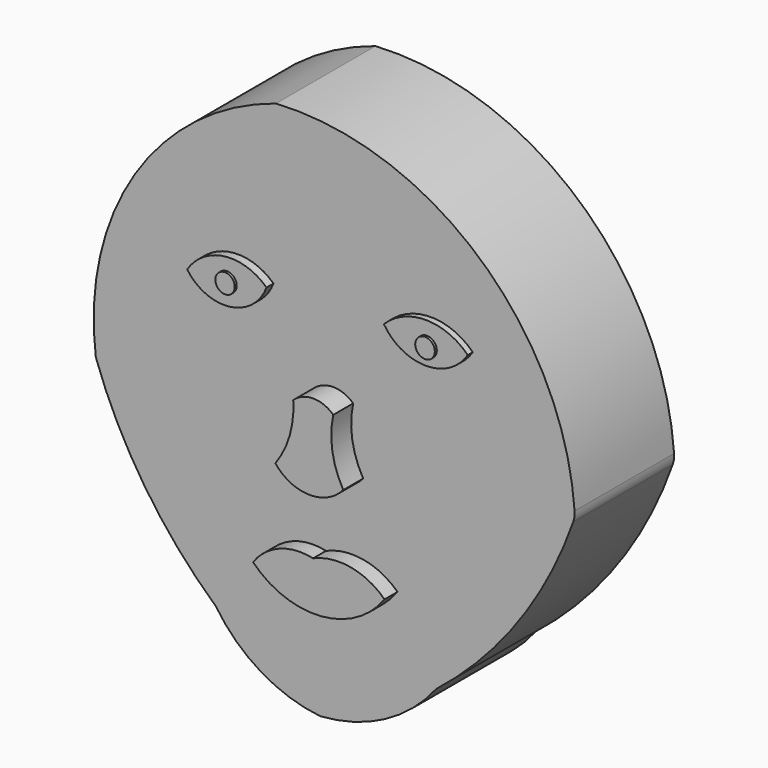
from build123d import *

# Parameters (mm, degrees)
F1_DEPTH  = 25.4
F2_R      = 5.08
F7_DEPTH  = 1.778
F8_DEPTH  = 1.27
F9_R      = 1.983549
F9_R_2    = 2.000866
F10_DEPTH = 0.508
F13_DEPTH = 3.302
F15_DEPTH = 4.826
F16_DEPTH = 5.08


with BuildPart() as f1:
    # F0 (on Front) → F1 (new body)
    with BuildSketch(Plane.XZ):
        with BuildLine():
            ThreePointArc((57.112481, 0), (37.924896, 39.944128), (-3.937069, 54.479349))
            ThreePointArc((-3.937069, 54.479349), (-32.779272, 32.369491), (-40.742062, -3.089111))
            ThreePointArc((-40.742062, -3.089111), (-30.781692, -23.026947), (-16.22959, -39.907783))
            ThreePointArc((-16.22959, -39.907783), (-6.995957, -48.701661), (5.098473, -52.741095))
            ThreePointArc((5.098473, -52.741095), (18.285511, -48.982574), (28.772663, -40.148318))
            ThreePointArc((28.772663, -40.148318), (45.857052, -22.131426), (57.112481, 0))
        make_face()
    extrude(amount=F1_DEPTH)

    # F2
    f2_edges = [f1.edges().sort_by_distance(p)[0] for p in [
        (57.112481, -12.7, 0),
    ]]
    fillet(f2_edges, radius=F2_R)

    # F5 (on face) → F7 (join)
    with BuildSketch(Plane.XZ.offset(25.4)):
        with BuildLine():
            ThreePointArc((-20.655226, 19.945692), (-11.950308, 16.056566), (-4.454444, 21.948334))
            ThreePointArc((-4.454444, 21.948334), (-13.026794, 24.765018), (-20.655226, 19.945692))
        make_face()
    extrude(amount=F7_DEPTH)

    # F6 (on face) → F8 (join)
    with BuildSketch(Plane.XZ.offset(25.4)):
        with BuildLine():
            ThreePointArc((19.112366, 22.835286), (27.682105, 18.127229), (36.251843, 22.835286))
            ThreePointArc((36.251843, 22.835286), (27.682105, 26.371202), (19.112366, 22.835286))
        make_face()
    extrude(amount=F8_DEPTH)

    # F9 (on face) → F10 (join)
    with BuildSketch(Plane.XZ.offset(27.178)):
        with Locations((-12.513474, 20.290239)):
            Circle(F9_R)
        with Locations((28.326349, 21.948334)):
            Circle(F9_R_2)
    extrude(amount=F10_DEPTH)

    # F12 (on face) → F13 (join)
    with BuildSketch(Plane.XZ.offset(25.4)):
        with BuildLine():
            ThreePointArc((20.878522, -25.258632), (13.976197, -21.73428), (6.278158, -22.630567))
            ThreePointArc((6.278158, -22.630567), (-0.561298, -23.109957), (-5.986149, -27.302684))
            ThreePointArc((-5.986149, -27.302684), (7.920002, -32.507944), (20.878522, -25.258632))
        make_face()
    extrude(amount=F13_DEPTH)


with BuildPart() as f15:
    # F14 (on face) → F15 (new body)
    with BuildSketch(Plane.XZ.offset(25.4)):
        with BuildLine():
            ThreePointArc((3.650092, 5.694143), (2.929769, -0.905155), (0, -6.862171))
            ThreePointArc((0, -6.862171), (6.866457, -10.272166), (13.870345, -7.154179))
            ThreePointArc((13.870345, -7.154179), (11.640881, -0.922111), (11.826294, 5.694143))
            ThreePointArc((11.826294, 5.694143), (7.738193, 7.311782), (3.650092, 5.694143))
        make_face()
    extrude(amount=F15_DEPTH)


with BuildPart() as f16:
    # F14 (on face) → F16 (new body)
    with BuildSketch(Plane.XZ.offset(25.4)):
        with BuildLine():
            ThreePointArc((3.650092, 5.694143), (2.929769, -0.905155), (0, -6.862171))
            ThreePointArc((0, -6.862171), (6.866457, -10.272166), (13.870345, -7.154179))
            ThreePointArc((13.870345, -7.154179), (11.640881, -0.922111), (11.826294, 5.694143))
            ThreePointArc((11.826294, 5.694143), (7.738193, 7.311782), (3.650092, 5.694143))
        make_face()
    extrude(amount=F16_DEPTH)


solid = Compound([f1.part, f15.part, f16.part])
